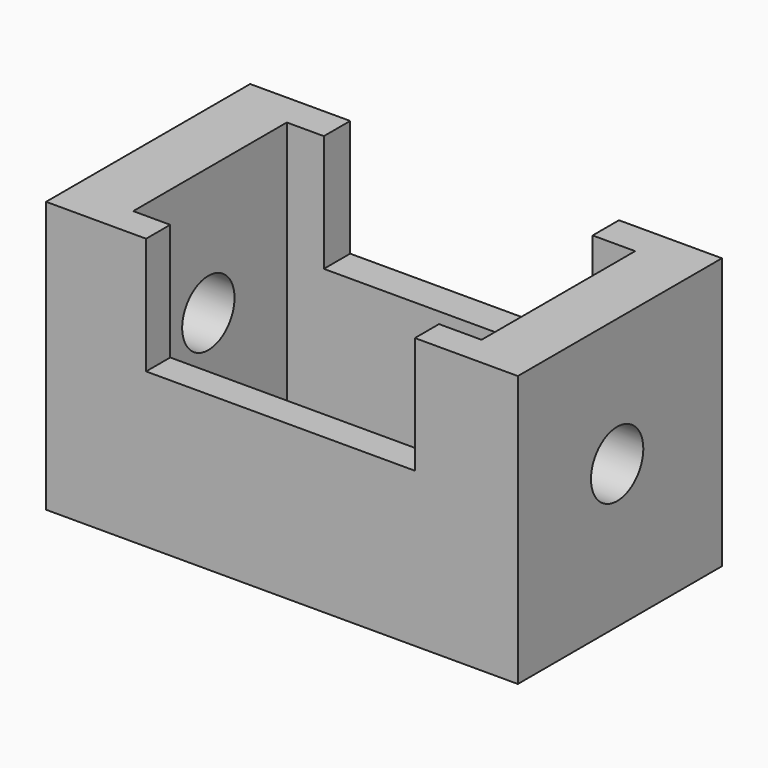
from build123d import *

# Parameters (mm, degrees)
F0_W     = 98.122775
F0_H     = 53.054758
F1_DEPTH = 56.388
F2_W     = 72.451114
F2_H     = 39.933689
F3_DEPTH = 56.389
F4_R     = 6.804049
F5_DEPTH = 106.39576
F7_DEPTH = 101.6


with BuildPart() as f1:
    # F0 (on Top) → F1 (new body)
    with BuildSketch(Plane.XY):
        with Locations((57.333372, -39.505832)):
            Rectangle(F0_W, F0_H)
    extrude(amount=F1_DEPTH)

    # F2 (on Top) → F3 (cut, through all)
    with BuildSketch(Plane.XY):
        with Locations((57.598237, -39.791069)):
            Rectangle(F2_W, F2_H)
    extrude(amount=F3_DEPTH, mode=Mode.SUBTRACT)

    # F4 (on Right) → F5 (cut, through all)
    with BuildSketch(Plane.YZ):
        with Locations((-40.218931, 29.807648)):
            Circle(F4_R)
    extrude(amount=F5_DEPTH, mode=Mode.SUBTRACT)

    # F6 (on Front) → F7 (cut)
    with BuildSketch(Plane.XZ):
        Polygon((84.981345, 64.892247), (40.198553, 62.610321), (29.074172, 62.610321), (29.074172, 32.089572), (84.981345, 32.089572), align=None)
    extrude(amount=F7_DEPTH, mode=Mode.SUBTRACT)


solid = f1.part
